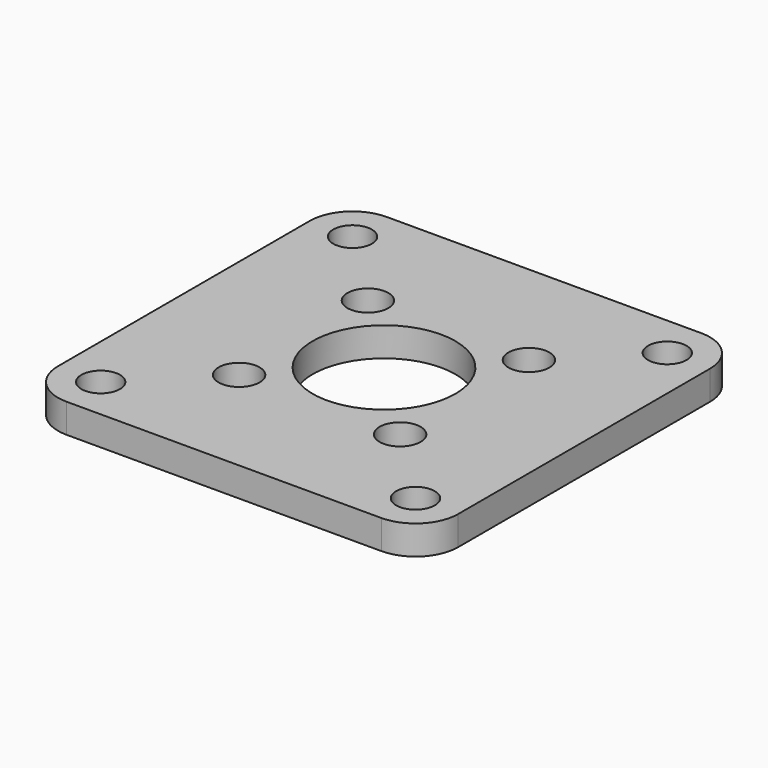
from build123d import *

# Parameters (mm, degrees)
F0_W     = 44.637802
F0_H     = 44.637802
F0_R     = 2.15265
F0_R_2   = 2.285606
F0_R_3   = 7.9629
F1_DEPTH = 3.2512
F2_R     = 4.7625


with BuildPart() as f1:
    # F0 (on Top) → F1 (new body)
    with BuildSketch(Plane.XY):
        Rectangle(F0_W, F0_H)
        with Locations((-17.556401, -17.556401)):
            Circle(F0_R, mode=Mode.SUBTRACT)
        with Locations((-8.980259, -8.980259)):
            Circle(F0_R_2, mode=Mode.SUBTRACT)
        with Locations((17.556401, -17.556401)):
            Circle(F0_R, mode=Mode.SUBTRACT)
        with Locations((8.980259, -8.980259)):
            Circle(F0_R_2, mode=Mode.SUBTRACT)
        Circle(F0_R_3, mode=Mode.SUBTRACT)
        with Locations((-8.980259, 8.980259)):
            Circle(F0_R_2, mode=Mode.SUBTRACT)
        with Locations((-17.556401, 17.556401)):
            Circle(F0_R, mode=Mode.SUBTRACT)
        with Locations((8.980259, 8.980259)):
            Circle(F0_R_2, mode=Mode.SUBTRACT)
        with Locations((17.556401, 17.556401)):
            Circle(F0_R, mode=Mode.SUBTRACT)
    extrude(amount=F1_DEPTH)

    # F2
    f2_edges = [f1.edges().sort_by_distance(p)[0] for p in [
        (-22.318901, -22.318901, 1.6256),
        (22.318901, -22.318901, 1.6256),
        (22.318901, 22.318901, 1.6256),
        (-22.318901, 22.318901, 1.6256),
    ]]
    fillet(f2_edges, radius=F2_R)


solid = f1.part
